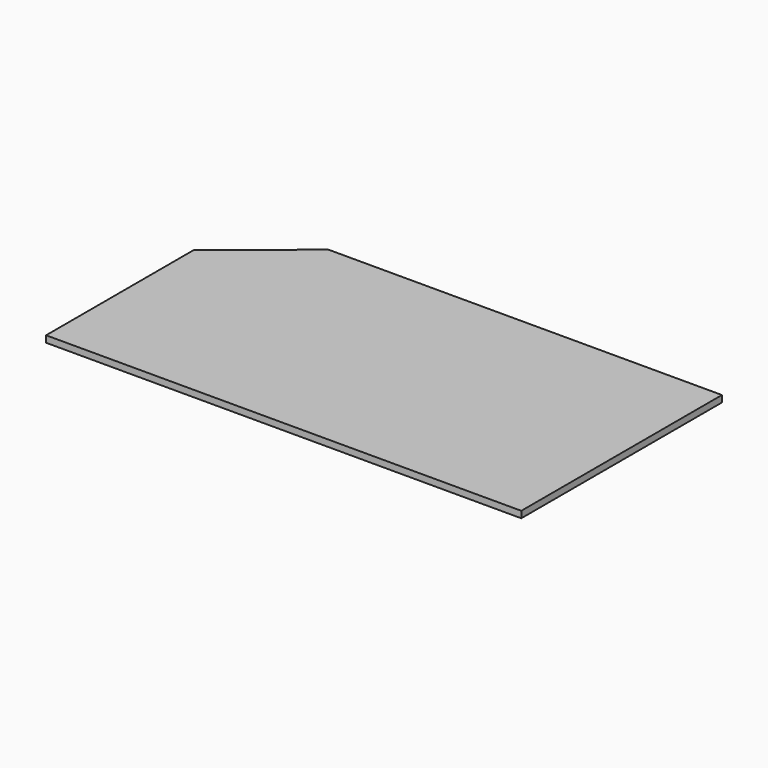
from build123d import *

# Parameters (mm, degrees)
F0_W     = 457.2
F0_H     = 241.3
F1_DEPTH = 6.35
F3_DEPTH = 6.35


with BuildPart() as f1:
    # F0 (on Top) → F1 (new body)
    with BuildSketch(Plane.XY):
        Rectangle(F0_W, F0_H)
    extrude(amount=F1_DEPTH)

    # F2 (on face) → F3 (cut)
    with BuildSketch(Plane.XY.offset(6.35)):
        Polygon((-228.6, 120.65), (-228.6, 57.15), (-149.86, 120.65), align=None)
    extrude(amount=-F3_DEPTH, mode=Mode.SUBTRACT)


solid = f1.part
